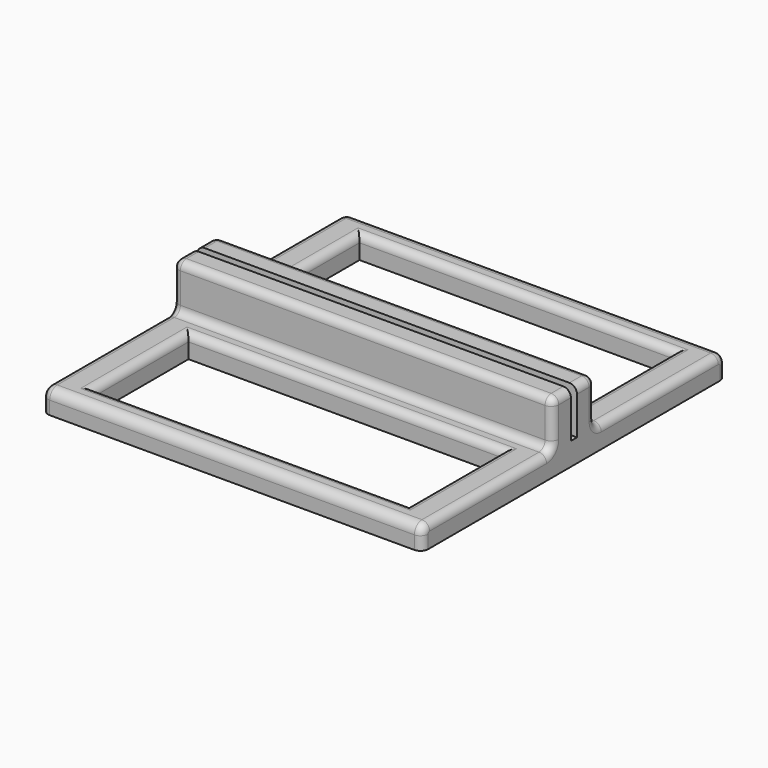
from build123d import *

# Parameters (mm, degrees)
PAD_DEPTH       = 20
FILLET_R        = 0.5
FILLET001_R     = 0.5
FILLET002_R     = 0.4
FILLET003_R     = 0.4
SKETCH002_W     = 6.171573
SKETCH002_H     = 16.569204
POCKET_DEPTH    = 23
SKETCH003_W     = 6.204978
SKETCH003_H     = 16.552317
SKETCH003_H_2   = 16.575784
POCKET001_DEPTH = 23
FILLET004_R     = 0.4
FILLET005_R     = 0.4
FILLET006_R     = 0.4
FILLET007_R     = 0.4
FILLET008_R     = 0.4
FILLET009_R     = 0.4
FILLET010_R     = 0.4
FILLET011_R     = 0.4


with BuildPart() as part:
    # Sketch → Pad (new body)
    with BuildSketch(Plane.YZ):
        Polygon((-9.999999, 0), (10.000001, 0), (10.000001, 1.2), (1.4, 1.2), (1.4, 3.6), (0.2, 3.6), (0.2, 1.2), (-0.2, 1.2), (-0.2, 3.6), (-1.4, 3.6), (-1.4, 1.2), (-10.000001, 1.2), align=None)
    extrude(amount=PAD_DEPTH)

    # Fillet
    fillet_edges = [part.edges().sort_by_distance(p)[0] for p in [
        (10, -10.000001, 1.2),
    ]]
    fillet(fillet_edges, radius=FILLET_R)

    # Fillet001
    fillet001_edges = [part.edges().sort_by_distance(p)[0] for p in [
        (10, 10.000001, 1.2),
    ]]
    fillet(fillet001_edges, radius=FILLET001_R)

    # Fillet002
    fillet002_edges = [part.edges().sort_by_distance(p)[0] for p in [
        (10, -1.4, 1.2),
    ]]
    fillet(fillet002_edges, radius=FILLET002_R)

    # Fillet003
    fillet003_edges = [part.edges().sort_by_distance(p)[0] for p in [
        (10, 1.4, 1.2),
    ]]
    fillet(fillet003_edges, radius=FILLET003_R)

    # Sketch002 → Pocket (cut)
    with BuildSketch(Plane(origin=(0, 0, 1.2), x_dir=(0, -1, 0), z_dir=(0, 0, 1))):
        with Locations((-5.631366, 10)):
            Rectangle(SKETCH002_W, SKETCH002_H)
    extrude(amount=-POCKET_DEPTH, mode=Mode.SUBTRACT)

    # Sketch003 → Pocket001 (cut)
    with BuildSketch(Plane(origin=(0, 0, 1.2), x_dir=(0, -1, 0), z_dir=(0, 0, 1))):
        with Locations((5.641938, 10.014704)):
            Rectangle(SKETCH003_W, SKETCH003_H)
        with Locations((-5.641938, 10.002971)):
            Rectangle(SKETCH003_W, SKETCH003_H_2)
    extrude(amount=-POCKET001_DEPTH, mode=Mode.SUBTRACT)

    # Fillet004
    fillet004_edges = [part.edges().sort_by_distance(p)[0] for p in [
        (1.738546, -5.641938, 1.2),
        (10.014704, -2.539449, 1.2),
        (10.014705, -8.744427, 1.2),
        (18.290863, -5.641938, 1.2),
    ]]
    fillet(fillet004_edges, radius=FILLET004_R)

    # Fillet005
    fillet005_edges = [part.edges().sort_by_distance(p)[0] for p in [
        (10.002971, 8.744427, 1.2),
        (1.715079, 5.641938, 1.2),
        (10.002971, 2.539449, 1.2),
        (18.290863, 5.641938, 1.2),
    ]]
    fillet(fillet005_edges, radius=FILLET005_R)

    # Fillet006
    fillet006_edges = [part.edges().sort_by_distance(p)[0] for p in [
        (10, -1.4, 3.6),
    ]]
    fillet(fillet006_edges, radius=FILLET006_R)

    # Fillet007
    fillet007_edges = [part.edges().sort_by_distance(p)[0] for p in [
        (10, 1.4, 3.6),
    ]]
    fillet(fillet007_edges, radius=FILLET007_R)

    # Fillet008
    fillet008_edges = [part.edges().sort_by_distance(p)[0] for p in [
        (20, -0.6, 3.6),
    ]]
    fillet(fillet008_edges, radius=FILLET008_R)

    # Fillet009
    fillet009_edges = [part.edges().sort_by_distance(p)[0] for p in [
        (20, 0.6, 3.6),
    ]]
    fillet(fillet009_edges, radius=FILLET009_R)

    # Fillet010
    fillet010_edges = [part.edges().sort_by_distance(p)[0] for p in [
        (0, -0.6, 3.6),
    ]]
    fillet(fillet010_edges, radius=FILLET010_R)

    # Fillet011
    fillet011_edges = [part.edges().sort_by_distance(p)[0] for p in [
        (0, 0.6, 3.6),
    ]]
    fillet(fillet011_edges, radius=FILLET011_R)


solid = part.part
